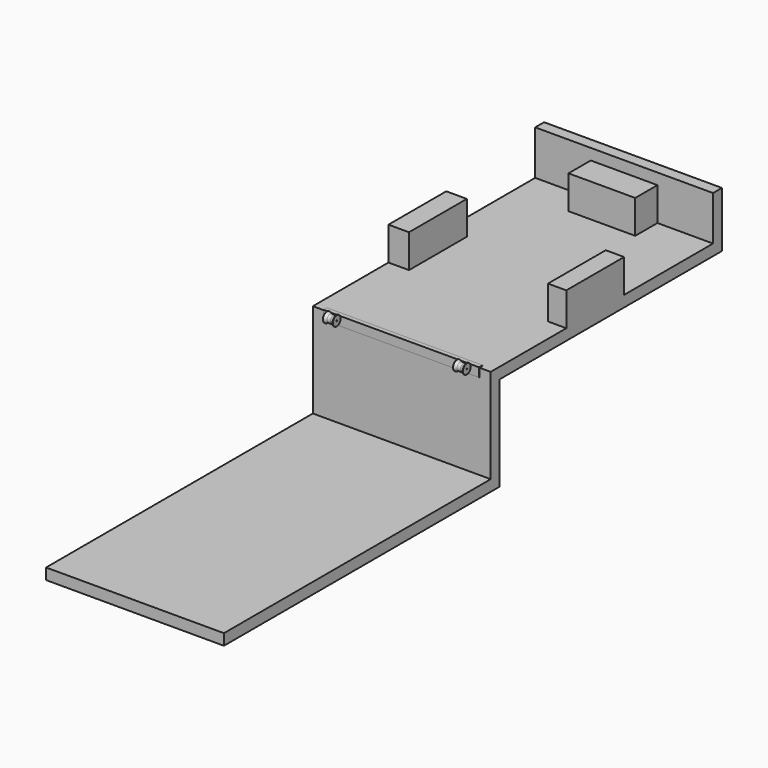
from build123d import *

# Parameters (mm, degrees)
F1_DEPTH = 800
F2_W     = 185
F2_H     = 650
F2_W_2   = 165
F2_W_3   = 600
F2_H_2   = 250
F3_DEPTH = 300
F5_DEPTH = 700


with BuildPart() as f1:
    # F0 (on Right) → F1 (new body, symmetric)
    with BuildSketch(Plane.YZ):
        Polygon((0, 0), (-3000, 0), (-3000, -100), (100, -100), (100, 750), (2600, 750), (2600, 1250), (2500, 1250), (2500, 850), (0, 850), align=None)
    extrude(amount=F1_DEPTH, both=True)

    # F2 (on face) → F3 (join)
    with BuildSketch(Plane.XY.offset(850)):
        with Locations((-707.5, 1175)):
            Rectangle(F2_W, F2_H)
        with Locations((717.5, 1175)):
            Rectangle(F2_W_2, F2_H)
        with Locations((0, 2375)):
            Rectangle(F2_W_3, F2_H_2)
    extrude(amount=F3_DEPTH)


with BuildPart() as f5:
    # F4 (on Right) → F5 (new body, symmetric)
    with BuildSketch(Plane.YZ):
        Polygon((0, 776), (0, 850), (34, 850), (34, 856), (-6, 856), (-6, 776), align=None)
    extrude(amount=F5_DEPTH, both=True)


with BuildPart() as f8:
    # F7 (on offset) → F8 (revolve)
    with BuildSketch(Plane.XZ.offset(56)):
        with BuildLine():
            Line((-600.6802203414, 876.1192288052), (-627.6703390229, 885.8807711948))
            ThreePointArc((-627.6703390229, 885.8807711948), (-629.4993759983, 885.6371378504), (-630.3505593642, 884))
            Line((-630.3505593642, 884), (-630.3505593642, 846))
            Line((-630.3505593642, 846), (-540.3505593642, 846))
            Line((-540.3505593642, 846), (-540.3505593642, 884))
            ThreePointArc((-540.3505593642, 884), (-541.2017427302, 885.6371378504), (-543.0307797056, 885.8807711948))
            Line((-543.0307797056, 885.8807711948), (-570.0208983871, 876.1192288052))
            ThreePointArc((-570.0208983871, 876.1192288052), (-570.3558234849, 876.0300326919), (-570.7011187284, 876))
            Line((-570.7011187284, 876), (-600, 876))
            ThreePointArc((-600, 876), (-600.3452952435, 876.0300326919), (-600.6802203414, 876.1192288052))
        make_face()
    revolve(axis=Axis((572.4560523535, -56, 841), (-1, 0, 0)))


with BuildPart() as f8b:
    # F7 (on offset) → F8, piece 2 (revolve)
    with BuildSketch(Plane.XZ.offset(56)):
        with BuildLine():
            Line((627.6703390229, 885.8807711948), (600.6802203414, 876.1192288052))
            ThreePointArc((600.6802203414, 876.1192288052), (600.3452952435, 876.0300326919), (600, 876))
            Line((600, 876), (570.7011187284, 876))
            ThreePointArc((570.7011187284, 876), (570.3558234849, 876.0300326919), (570.0208983871, 876.1192288052))
            Line((570.0208983871, 876.1192288052), (543.0307797056, 885.8807711948))
            ThreePointArc((543.0307797056, 885.8807711948), (541.2017427302, 885.6371378504), (540.3505593642, 884))
            Line((540.3505593642, 884), (540.3505593642, 846))
            Line((540.3505593642, 846), (630.3505593642, 846))
            Line((630.3505593642, 846), (630.3505593642, 884))
            ThreePointArc((630.3505593642, 884), (629.4993759983, 885.6371378504), (627.6703390229, 885.8807711948))
        make_face()
    revolve(axis=Axis((572.4560523535, -56, 841), (-1, 0, 0)))


solid = Compound([f1.part, f5.part, f8.part, f8b.part])
